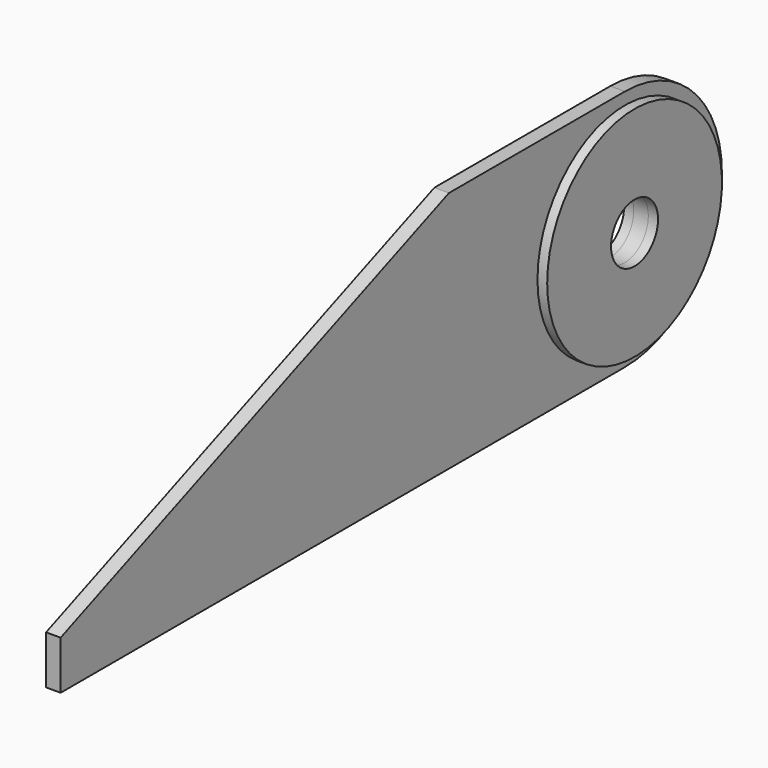
from build123d import *

# Parameters (mm, degrees)
F0_R     = 225
F0_R_2   = 60.5
F1_DEPTH = 15
F2_R     = 225
F2_R_2   = 60.5
F3_DEPTH = 20


with BuildPart() as f1:
    # F0 (on Right) → F1 (new body, symmetric)
    with BuildSketch(Plane.YZ):
        with BuildLine():
            Line((-726.5, 100), (-726.5, 0))
            Line((-726.5, 0), (726.5, 0))
            ThreePointArc((726.5, 0), (976.5, 250), (726.5, 500))
            Line((726.5, 500), (273.5, 500))
            Line((273.5, 500), (-726.5, 100))
        make_face()
        with Locations((726.5, 250)):
            Circle(F0_R, mode=Mode.SUBTRACT)
        with Locations((726.5, 250)):
            Circle(F0_R)
        with Locations((726.5, 250)):
            Circle(F0_R_2, mode=Mode.SUBTRACT)
    extrude(amount=F1_DEPTH, both=True)

    # F2 (on face) → F3 (join)
    with BuildSketch(Plane(origin=(-15, 0, 0), x_dir=(0, -1, 0), z_dir=(-1, 0, 0))):
        with Locations((-726.5, 250)):
            Circle(F2_R)
        with Locations((-726.5, 250)):
            Circle(F2_R_2, mode=Mode.SUBTRACT)
    extrude(amount=F3_DEPTH)

    # F4: F1 across plane


with BuildPart() as f1_1:
    add(f1.part)
    add(f1.part.mirror(Plane.YZ))


solid = f1_1.part
